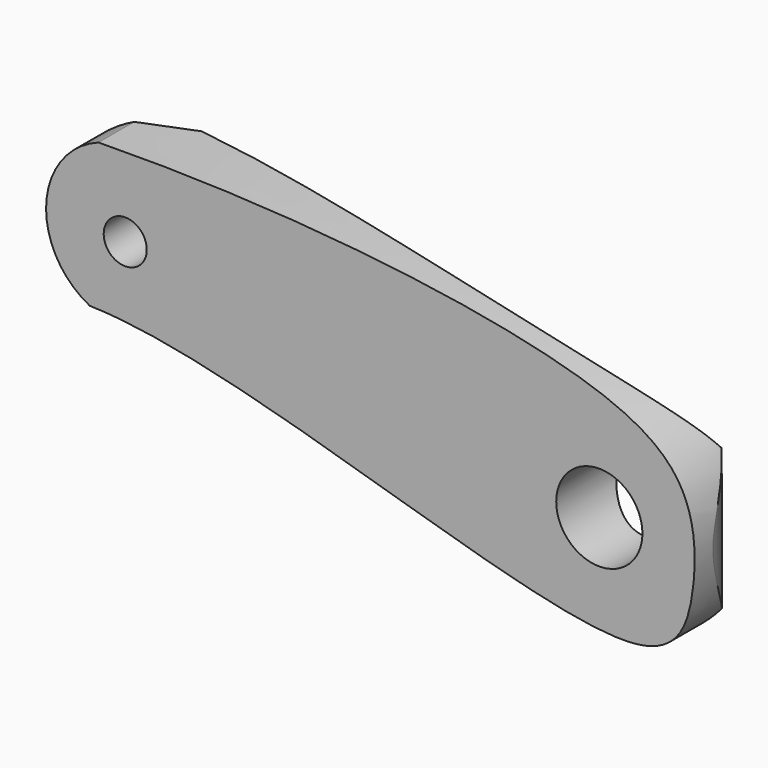
from build123d import *

# Parameters (mm, degrees)
F1_DEPTH = 6.35
F2_D     = 6.35
F3_D     = 3.175
F6_DEPTH = 63.5
F8_DEPTH = 38.1


with BuildPart() as f1:
    # F0 (on Front) → F1 (new body)
    with BuildSketch(Plane.XZ):
        with BuildLine():
            add(Edge.make_bspline(
                [(11.7170246186, 27.5181992918), (26.2255903847, 27.7629586116), (48.3846492687, 25.0700674705), (55.6356924136, 19.3540475045), (55.8687851234, 12.478221614), (52.7926576137, 3.0913798232), (22.8349964924, 16.4619868897), (11.0743273574, 16.709885222)],
                knots=[0.3296138166, 0.3296138166, 0.3296138166, 0.3296138166, 0.480499723, 0.5607025722, 0.6289296599, 0.6976911092, 0.8631531697, 0.8631531697, 0.8631531697, 0.8631531697], degree=3))
            ThreePointArc((11.7170246186, 27.5181992918), (7.864434674, 22.32402127), (11.0743273574, 16.709885222))
        make_face()
    extrude(amount=-F1_DEPTH)

    # F2 (through all)
    with Locations(Plane.XZ):
        with Locations((48.6235208809, 15.1863284409)):
            Hole(F2_D / 2)

    # F3 (through all)
    with Locations(Plane.XZ):
        with Locations((13.6874951422, 21.7128396034)):
            Hole(F3_D / 2)

    # F5 (on face) → F6 (cut, symmetric)
    with BuildSketch(Plane(origin=(47.3973885527, 0, -10.3885295862), x_dir=(0, -1, 0), z_dir=(-0.9768123791, 0, 0.2140971182))):
        with BuildLine():
            Line((0, 16.6775155813), (0, 17.6107138395))
            add(Edge.make_bspline(
                [(0, 34.7532853484), (-1.5378532055, 33.5959036458), (-4.4815687566, 31.3875342093), (-6.4257674751, 26.8939046891), (-4.9897171526, 21.721626127), (-1.7671005847, 18.8913922435), (0, 17.6107138395)],
                knots=[0, 0, 0, 0, 0.2558418404, 0.4854903825, 0.725840266, 1, 1, 1, 1], degree=3))
            Line((0, 34.7532853484), (0, 37.0723327391))
            Line((0, 37.0723327391), (-13.2649885491, 37.0723327391))
            Line((-13.2649885491, 37.0723327391), (-13.2649885491, 16.6775155813))
            Line((-13.2649885491, 16.6775155813), (-13.2639063522, 16.6775155813))
            Line((-13.2639063522, 16.6775155813), (0, 16.6775155813))
        make_face()
    extrude(amount=F6_DEPTH, both=True, mode=Mode.SUBTRACT)

    # F7 (on Top) → F8 (cut, symmetric)
    with BuildSketch(Plane.XY):
        Polygon((0, 0), (3.2524354756, 0), (21.9712223362, 7.280037362), (21.9004824758, 10.5176325887), (16.7136751115, 10.5176325887), (0, 10.5176325887), align=None)
        with BuildLine():
            ThreePointArc((49.53, 6.35), (54.0201280605, 4.4901280605), (55.88, 0))
            Line((55.88, 0), (57.8722134233, 0))
            Line((57.8722134233, 0), (57.8722134233, 8.8483812287))
            Line((57.8722134233, 8.8483812287), (49.53, 8.8483812287))
            Line((49.53, 8.8483812287), (49.53, 6.35))
        make_face()
    extrude(amount=F8_DEPTH, both=True, mode=Mode.SUBTRACT)


solid = f1.part
